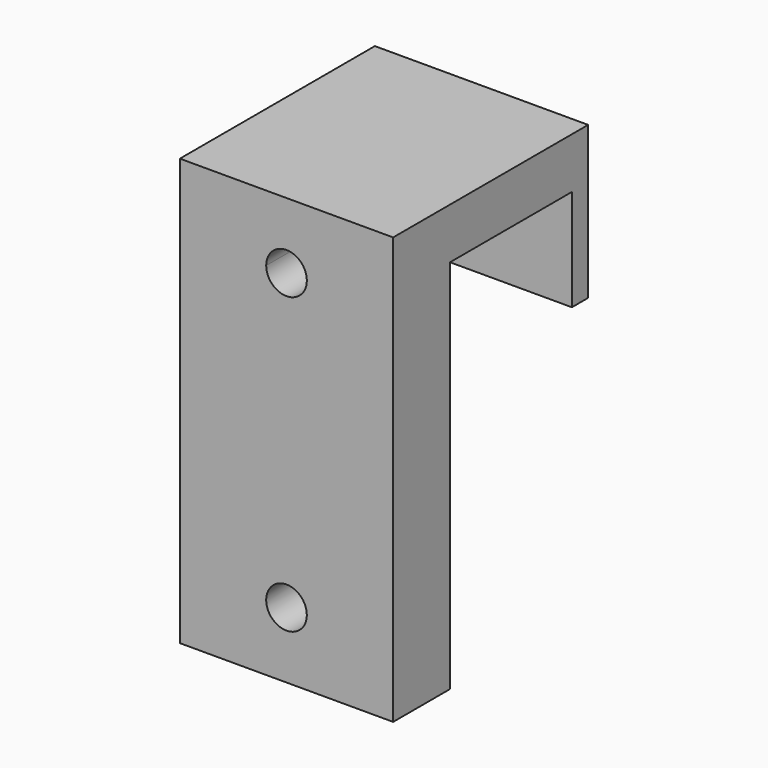
from build123d import *

# Parameters (mm, degrees)
F0_W      = 21
F0_H      = 42
F1_DEPTH  = 7
F2_W      = 21
F2_H      = 5
F3_DEPTH  = 17
F4_R      = 2
F5_DEPTH  = 25
F6_R      = 4
F7_DEPTH  = 3
F8_R      = 4
F9_DEPTH  = 25
F10_W     = 21
F10_H     = 2
F11_DEPTH = 15
F12_R     = 2
F13_DEPTH = 25
F14_R     = 4
F15_DEPTH = 5


with BuildPart() as f1:
    # F0 (on Front) → F1 (new body)
    with BuildSketch(Plane.XZ):
        Rectangle(F0_W, F0_H)
    extrude(amount=F1_DEPTH)

    # F2 (on face) → F3 (join)
    with BuildSketch(Plane(origin=(0, 0, 0), x_dir=(-1, 0, 0), z_dir=(0, 1, 0))):
        with Locations((0, 18.5)):
            Rectangle(F2_W, F2_H)
    extrude(amount=F3_DEPTH)

    # F4 (on face) → F5 (cut)
    with BuildSketch(Plane.XZ.offset(7)):
        with Locations((0, 14.5)):
            Circle(F4_R)
        with Locations((0, -14.5)):
            Circle(F4_R)
    extrude(amount=-F5_DEPTH, mode=Mode.SUBTRACT)

    # F6 (on face) → F7 (cut)
    with BuildSketch(Plane(origin=(0, 0, 0), x_dir=(-1, 0, 0), z_dir=(0, 1, 0))):
        with Locations((0, 14.520681)):
            Circle(F6_R)
        with Locations((0, -14.510261)):
            Circle(F6_R)
    extrude(amount=-F7_DEPTH, mode=Mode.SUBTRACT)

    # F8 (on face) → F9 (cut)
    with BuildSketch(Plane.XZ):
        with Locations((0, 14.548728)):
            Circle(F8_R)
    extrude(amount=-F9_DEPTH, mode=Mode.SUBTRACT)

    # F10 (on face) → F11 (join)
    with BuildSketch(Plane.XY.offset(21)):
        with Locations((0, 16)):
            Rectangle(F10_W, F10_H)
    extrude(amount=-F11_DEPTH)

    # F12 (on face) → F13 (cut)
    with BuildSketch(Plane.XZ.offset(7)):
        with Locations((0, 14.492556)):
            Circle(F12_R)
    extrude(amount=-F13_DEPTH, mode=Mode.SUBTRACT)

    # F14 (on face) → F15 (cut)
    with BuildSketch(Plane(origin=(0, 17, 0), x_dir=(-1, 0, 0), z_dir=(0, 1, 0))):
        with Locations((0, 14.492556)):
            Circle(F14_R)
    extrude(amount=-F15_DEPTH, mode=Mode.SUBTRACT)


solid = f1.part
